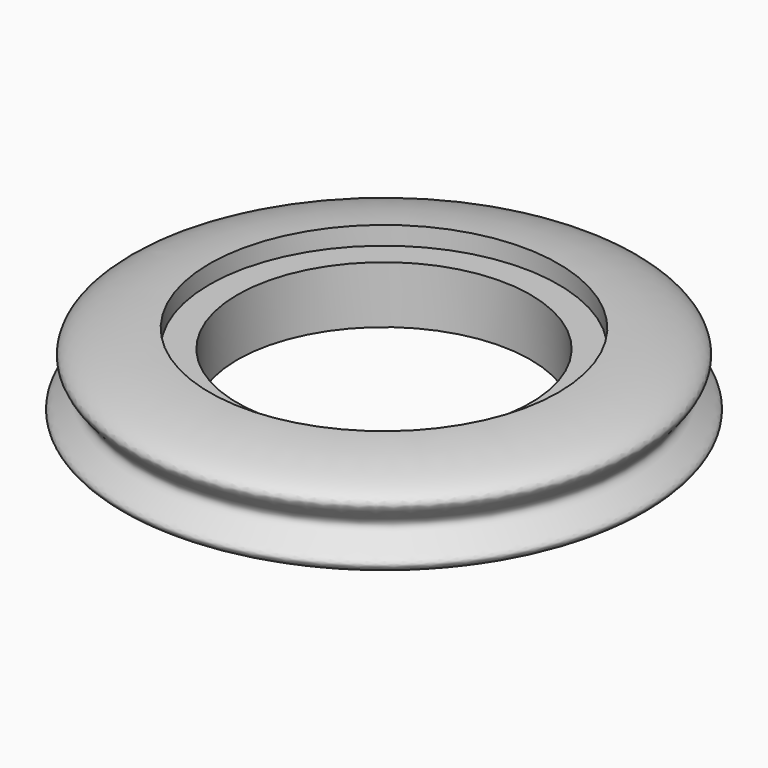
from build123d import *


with BuildPart() as f2:
    # F1 (on Front) → F2 (revolve)
    with BuildSketch(Plane.XZ):
        with BuildLine():
            Line((-50.8, 26.162), (-60.452, 26.162))
            Line((-60.452, 26.162), (-60.452, 32.512))
            add(Edge.make_bspline(
                [(-60.452, 32.512), (-64.1315789023, 32.659612838), (-79.1408199791, 31.1496489087), (-93.0500279022, 24.6396298819), (-78.0019171098, 14.964666804), (-96.1475821679, 8.4752049923), (-82.9302150348, 1.353626365), (-70.8828414945, 0), (-63.5, 0)],
                knots=[0, 0, 0, 0, 0.2041532476, 0.3554033205, 0.499203139, 0.6503652671, 0.7863261148, 1, 1, 1, 1], degree=3))
            Line((-63.5, 0), (-63.5, 6.35))
            Line((-63.5, 6.35), (-50.8, 6.35))
            Line((-50.8, 6.35), (-50.8, 26.162))
        make_face()
    revolve(axis=Axis((0, 0, 15.875), (0, 0, 1)))


solid = f2.part
